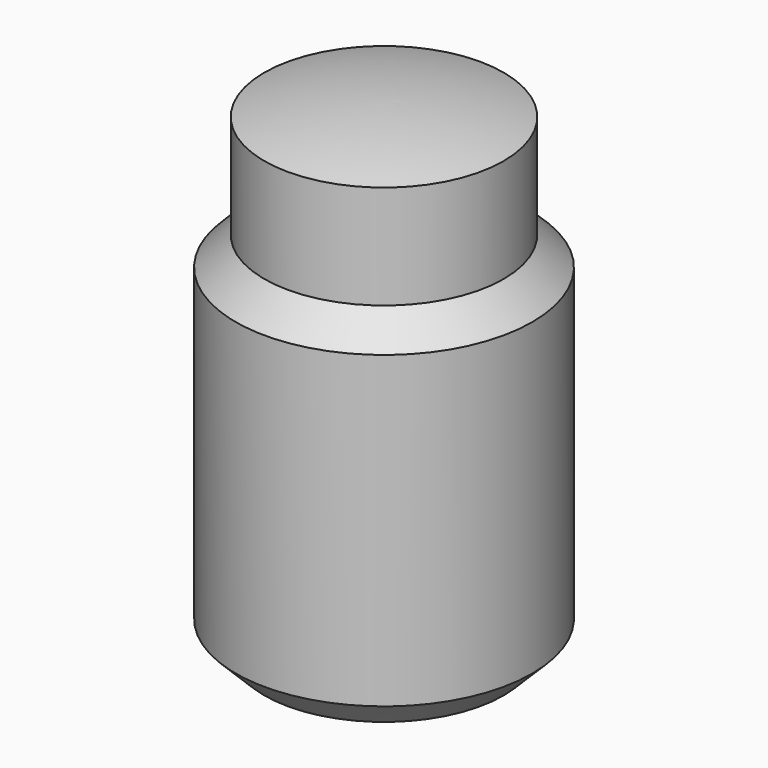
from build123d import *

# Parameters (mm, degrees)
F0_R     = 5.65
F1_DEPTH = 22.2
F2_T     = -0.3
F5_R     = 7
F5_R_2   = 5.65
F6_DEPTH = 17.3


with BuildPart() as f1:
    # F0 (on Top) → F1 (new body)
    with BuildSketch(Plane.XY):
        Circle(F0_R)
    extrude(amount=F1_DEPTH)

    # F2
    f2_openings = [f1.faces().sort_by_distance(p)[0] for p in [
        (0, 0, 22.2),
    ]]
    offset(amount=F2_T, openings=f2_openings)


with BuildPart() as f4:
    # F3 (on Front) → F4 (revolve)
    with BuildSketch(Plane.XZ):
        with BuildLine():
            Line((0, 23), (0, 22.2))
            Line((0, 22.2), (5.65, 22.2))
            ThreePointArc((5.65, 22.2), (2.853178, 22.799007), (0, 23))
        make_face()
    revolve(axis=Axis((0, 0, 22.6), (0, 0, 1)))


with BuildPart() as f6:
    # F5 (on Top) → F6 (new body)
    with BuildSketch(Plane.XY):
        Circle(F5_R)
        Circle(F5_R_2, mode=Mode.SUBTRACT)
    extrude(amount=F6_DEPTH)

    # F7 (on Front) → F8 (revolve, cut)
    with BuildSketch(Plane.XZ):
        Polygon((-5.65, 17.3), (-7, 17.3), (-7, 15.95), align=None)
        Polygon((-7, 1.35), (-7, 0), (-5.65, 0), align=None)
    revolve(axis=Axis((0, 0, 11.1), (0, 0, 1)), mode=Mode.SUBTRACT)


solid = Compound([f1.part, f4.part, f6.part])
